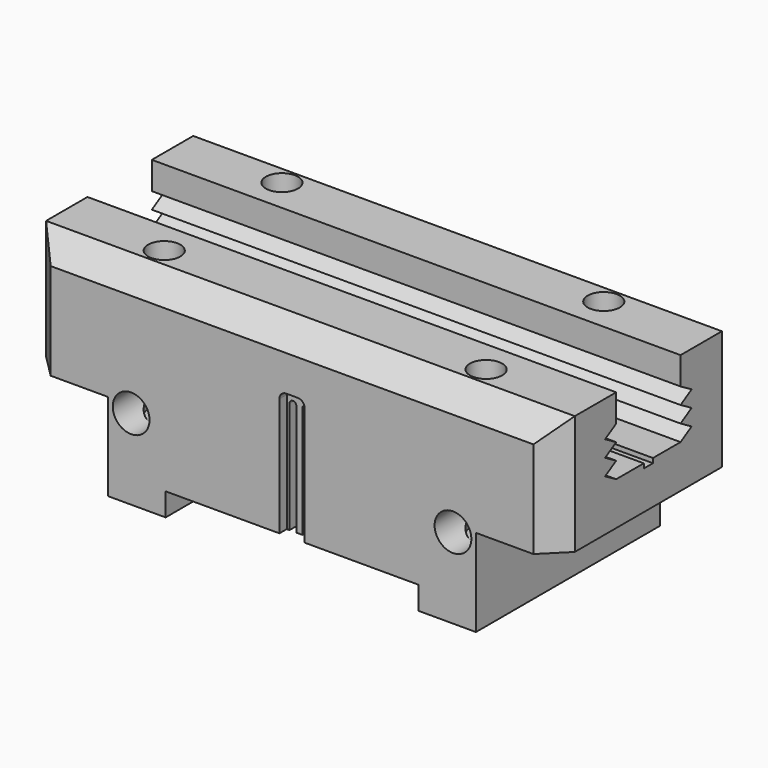
from build123d import *

# Parameters (mm, degrees)
F0_W      = 230
F0_H      = 100
F1_DEPTH  = 52
F3_DEPTH  = 230
F4_SIZE   = 10
F5_W      = 160
F5_H      = 100
F6_DEPTH  = 38
F7_R      = 7
F7_R_2    = 2.8
F8_DEPTH  = 63
F9_DEPTH  = 68
F10_R     = 8
F10_R_2   = 3.25
F11_DEPTH = 23
F12_DEPTH = 179.1
F13_R     = 8
F13_R_2   = 3.25
F13_W     = 110
F13_H     = 10
F14_DEPTH = 23
F15_DEPTH = 100.0010001
F16_W     = 45
F16_H     = 16
F17_DEPTH = 5
F19_DEPTH = 16
F20_W     = 45
F20_H     = 16
F21_DEPTH = 5
F23_DEPTH = 16
F25_DEPTH = 4
F27_DEPTH = 4
F28_W     = 110
F28_H     = 12
F29_DEPTH = 81.3


with BuildPart() as f1:
    # F0 (on Top) → F1 (new body)
    with BuildSketch(Plane.XY):
        Rectangle(F0_W, F0_H)
    extrude(amount=-F1_DEPTH)

    # F2 (on face) → F3 (cut, through all)
    with BuildSketch(Plane.YZ.offset(115)):
        Polygon((17.5, 0), (-17.5, 0), (-17.5, -12), (-23.5200449824, -15.55), (-17.5, -19.1), (-23.5200449824, -22.65), (-17.5, -26.2), (-23.5200449824, -29.75), (-17.5, -33.3), (-2.5, -33.3), (-2.5, -35.3), (2.5, -35.3), (2.5, -33.3), (17.5, -33.3), (23.5200449824, -29.75), (17.5, -26.2), (23.5200449824, -22.65), (17.5, -19.1), (23.5200449824, -15.55), (17.5, -12), align=None)
    extrude(amount=-F3_DEPTH, mode=Mode.SUBTRACT)

    # F4
    f4_edges = [f1.edges().sort_by_distance(p)[0] for p in [
        (0, 50, 0),
        (0, -50, 0),
        (115, -50, -26),
        (115, 50, -26),
        (-115, -50, -26),
        (-115, 50, -26),
    ]]
    chamfer(f4_edges, length=F4_SIZE)

    # F5 (on face) → F6 (join)
    with BuildSketch(Plane(origin=(0, 0, -52), x_dir=(1, 0, 0), z_dir=(0, 0, -1))):
        Rectangle(F5_W, F5_H)
    extrude(amount=F6_DEPTH)

    # F7 (on face) → F8 (cut)
    with BuildSketch(Plane.XY):
        with Locations((70, -32)):
            Circle(F7_R)
        with Locations((70, -32)):
            Circle(F7_R_2, mode=Mode.SUBTRACT)
        with Locations((-70, -32)):
            Circle(F7_R)
        with Locations((-70, -32)):
            Circle(F7_R_2, mode=Mode.SUBTRACT)
        with Locations((-70, 32)):
            Circle(F7_R)
        with Locations((-70, 32)):
            Circle(F7_R_2, mode=Mode.SUBTRACT)
        with Locations((70, 32)):
            Circle(F7_R)
        with Locations((70, 32)):
            Circle(F7_R_2, mode=Mode.SUBTRACT)
    extrude(amount=-F8_DEPTH, mode=Mode.SUBTRACT)

    # F9 (cut): faces of the model
    f9_faces = [f1.faces().sort_by_distance(p)[0] for p in [
        (70, 32, 0),
        (-70, 32, 0),
        (-70, -32, 0),
        (70, -32, 0),
    ]]
    extrude(f9_faces, amount=-F9_DEPTH, mode=Mode.SUBTRACT)

    # F10 (on face) → F11 (cut)
    with BuildSketch(Plane(origin=(0, 50, 0), x_dir=(-1, 0, 0), z_dir=(0, 1, 0))):
        with Locations((70, -55)):
            Circle(F10_R)
        with Locations((70, -55)):
            Circle(F10_R_2, mode=Mode.SUBTRACT)
        with Locations((-70, -55)):
            Circle(F10_R)
        with Locations((-70, -55)):
            Circle(F10_R_2, mode=Mode.SUBTRACT)
    extrude(amount=-F11_DEPTH, mode=Mode.SUBTRACT)

    # F12 (cut): faces of the model
    f12_faces = [f1.faces().sort_by_distance(p)[0] for p in [
        (70, 50, -55),
        (-70, 50, -55),
    ]]
    extrude(f12_faces, amount=-F12_DEPTH, mode=Mode.SUBTRACT)

    # F13 (on face) → F14 (cut)
    with BuildSketch(Plane.XZ.offset(50)):
        with Locations((-70, -55)):
            Circle(F13_R)
        with Locations((-70, -55)):
            Circle(F13_R_2, mode=Mode.SUBTRACT)
        with Locations((70, -55)):
            Circle(F13_R)
        with Locations((70, -55)):
            Circle(F13_R_2, mode=Mode.SUBTRACT)
        with Locations((0, -85)):
            Rectangle(F13_W, F13_H)
    extrude(amount=-F14_DEPTH, mode=Mode.SUBTRACT)

    # F13 (on face) → F15 (cut, through all)
    with BuildSketch(Plane.XZ.offset(50)):
        with Locations((0, -85)):
            Rectangle(F13_W, F13_H)
    extrude(amount=-F15_DEPTH, mode=Mode.SUBTRACT)

    # F16 (on face) → F17 (join)
    with BuildSketch(Plane(origin=(-80, 0, 0), x_dir=(0, -1, 0), z_dir=(-1, 0, 0))):
        with Locations((0, -60)):
            Rectangle(F16_W, F16_H)
    extrude(amount=F17_DEPTH)

    # F18 (on face) → F19 (cut)
    with BuildSketch(Plane(origin=(0, 0, -68), x_dir=(1, 0, 0), z_dir=(0, 0, -1))):
        with BuildLine():
            ThreePointArc((-80, -22.5), (-81.2963599777, -15.7685439911), (-85, -10))
            Line((-85, -10), (-85, -22.5))
            Line((-85, -22.5), (-80, -22.5))
        make_face()
        with BuildLine():
            Line((-85, 22.5), (-85, 10))
            ThreePointArc((-85, 10), (-81.2963599777, 15.7685439911), (-80, 22.5))
            Line((-80, 22.5), (-85, 22.5))
        make_face()
    extrude(amount=-F19_DEPTH, mode=Mode.SUBTRACT)

    # F20 (on face) → F21 (join)
    with BuildSketch(Plane.YZ.offset(80)):
        with Locations((0, -60)):
            Rectangle(F20_W, F20_H)
    extrude(amount=F21_DEPTH)

    # F22 (on face) → F23 (cut)
    with BuildSketch(Plane(origin=(0, 0, -68), x_dir=(1, 0, 0), z_dir=(0, 0, -1))):
        with BuildLine():
            Line((85, -22.5), (85, -10.3062534224))
            ThreePointArc((85, -10.3062534224), (81.3524469654, -15.9325768981), (80, -22.5))
            Line((80, -22.5), (85, -22.5))
        make_face()
        with BuildLine():
            ThreePointArc((80, 22.5), (81.2943190668, 15.6261341532), (85, 9.6937465776))
            Line((85, 9.6937465776), (85, 22.5))
            Line((85, 22.5), (80, 22.5))
        make_face()
    extrude(amount=-F23_DEPTH, mode=Mode.SUBTRACT)

    # F24 (on face) → F25 (cut)
    with BuildSketch(Plane.XZ.offset(50)):
        with BuildLine():
            Line((-5.5, -31), (-5.5, -80))
            Line((-5.5, -80), (5.5, -80))
            Line((5.5, -80), (5.5, -31))
            Line((5.5, -31), (5.5, -28.5))
            ThreePointArc((5.5, -28.5), (4.6213203436, -26.3786796564), (2.5, -25.5))
            Line((2.5, -25.5), (-2.5, -25.5))
            ThreePointArc((-2.5, -25.5), (-4.6213203436, -26.3786796564), (-5.5, -28.5))
            Line((-5.5, -28.5), (-5.5, -31))
        make_face()
    extrude(amount=-F25_DEPTH, mode=Mode.SUBTRACT)

    # F26 (on face) → F27 (cut)
    with BuildSketch(Plane.XZ.offset(46)):
        with BuildLine():
            Line((1.3, -31.5), (1.3, -80))
            Line((1.3, -80), (4.3, -80))
            Line((4.3, -80), (4.3, -31.5))
            ThreePointArc((4.3, -31.5), (2.8, -30), (1.3, -31.5))
        make_face()
        with BuildLine():
            Line((-4.3, -31.5), (-4.3, -80))
            Line((-4.3, -80), (-1.3, -80))
            Line((-1.3, -80), (-1.3, -31.5))
            ThreePointArc((-1.3, -31.5), (-2.8, -30), (-4.3, -31.5))
        make_face()
    extrude(amount=-F27_DEPTH, mode=Mode.SUBTRACT)

    # F28 (on face) → F29 (cut)
    with BuildSketch(Plane(origin=(0, 0, -80), x_dir=(1, 0, 0), z_dir=(0, 0, -1))):
        Rectangle(F28_W, F28_H)
    extrude(amount=-F29_DEPTH, mode=Mode.SUBTRACT)


solid = f1.part
